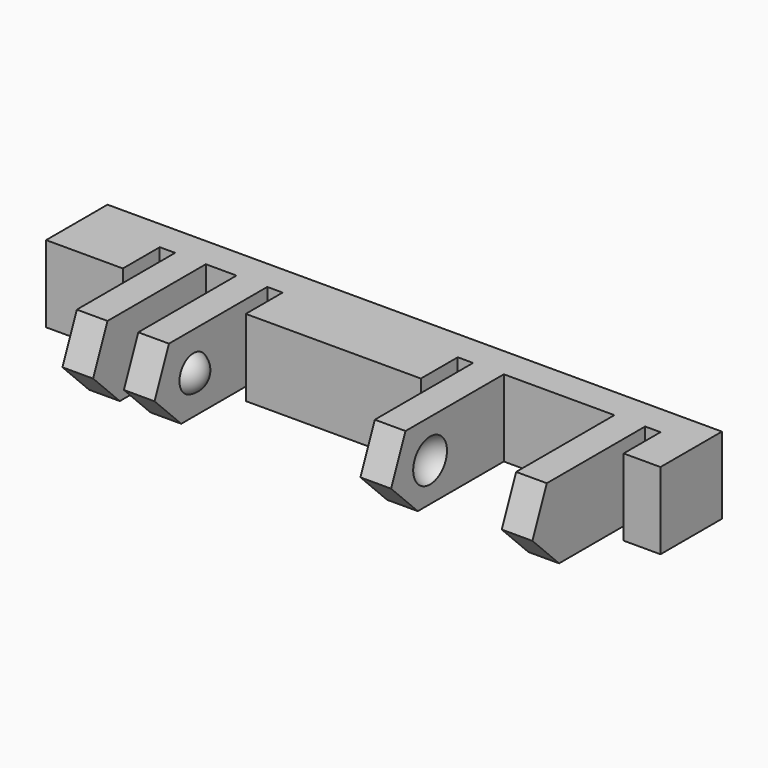
from build123d import *

# Parameters (mm, degrees)
BOX026_W               = 12
BOX026_H               = 44
BOX026_DEPTH           = 10
BOX022_W               = 4
BOX022_H               = 1
BOX022_DEPTH           = 7
BOX024_W               = 4
BOX024_H               = 1
BOX024_DEPTH           = 7
BOX021_W               = 4
BOX021_H               = 2
BOX021_DEPTH           = 7
BOX023_W               = 4
BOX023_H               = 1
BOX023_DEPTH           = 7
BOX020_W               = 4
BOX020_H               = 1
BOX020_DEPTH           = 7
BOX025_W               = 4
BOX025_H               = 7.2
BOX025_DEPTH           = 7
BOX019_W               = 13
BOX019_H               = 40
BOX019_DEPTH           = 10
BOX019_PLACEMENT_ANGLE = 45
BOX018_W               = 10
BOX018_H               = 2
BOX018_DEPTH           = 7
BOX017_W               = 10
BOX017_H               = 2
BOX017_DEPTH           = 7
BOX016_W               = 10
BOX016_H               = 2
BOX016_DEPTH           = 7
BOX014_W               = 10
BOX014_H               = 2
BOX014_DEPTH           = 7
BOX015_W               = 5
BOX015_H               = 40
BOX015_DEPTH           = 7
CHAMFER002_SIZE        = 4
CUT007_PLACEMENT_ANGLE = 180
CUT008_PLACEMENT_ANGLE = 90


with BuildPart() as cube026:
    # Box026 → Box026 (new body)
    with BuildSketch(Plane(origin=(-11, -2, -12), x_dir=(1, 0, 0), z_dir=(0, 0, 1))):
        with Locations((6, 22)):
            Rectangle(BOX026_W, BOX026_H)
    extrude(amount=BOX026_DEPTH)


with BuildPart() as cube022:
    # Box022 → Box022 (new body)
    with BuildSketch(Plane(origin=(-1, 12, 0), x_dir=(1, 0, 0), z_dir=(0, 0, 1))):
        with Locations((2, 0.5)):
            Rectangle(BOX022_W, BOX022_H)
    extrude(amount=BOX022_DEPTH)


with BuildPart() as cube024:
    # Box024 → Box024 (new body)
    with BuildSketch(Plane(origin=(-1, 36.6, 0), x_dir=(1, 0, 0), z_dir=(0, 0, 1))):
        with Locations((2, 0.5)):
            Rectangle(BOX024_W, BOX024_H)
    extrude(amount=BOX024_DEPTH)


with BuildPart() as cube021:
    # Box021 → Box021 (new body)
    with BuildSketch(Plane(origin=(-1, 8, 0), x_dir=(1, 0, 0), z_dir=(0, 0, 1))):
        with Locations((2, 1)):
            Rectangle(BOX021_W, BOX021_H)
    extrude(amount=BOX021_DEPTH)


with BuildPart() as cube023:
    # Box023 → Box023 (new body)
    with BuildSketch(Plane(origin=(-1, 24.4, 0), x_dir=(1, 0, 0), z_dir=(0, 0, 1))):
        with Locations((2, 0.5)):
            Rectangle(BOX023_W, BOX023_H)
    extrude(amount=BOX023_DEPTH)


with BuildPart() as cube020:
    # Box020 → Box020 (new body)
    with BuildSketch(Plane(origin=(-1, 5, 0), x_dir=(1, 0, 0), z_dir=(0, 0, 1))):
        with Locations((2, 0.5)):
            Rectangle(BOX020_W, BOX020_H)
    extrude(amount=BOX020_DEPTH)


with BuildPart() as fusion008:
    # Box025 → Box025 (new body)
    with BuildSketch(Plane(origin=(-1, 27.4, 0), x_dir=(1, 0, 0), z_dir=(0, 0, 1))):
        with Locations((2, 3.6)):
            Rectangle(BOX025_W, BOX025_H)
    extrude(amount=BOX025_DEPTH)

    # Fusion008: union Cube022, Cube024, Cube021, Cube023, Cube020
    add(cube022.part)
    add(cube024.part)
    add(cube021.part)
    add(cube023.part)
    add(cube020.part)


with BuildPart() as sphere014:
    # Sphere014 → Sphere014 (revolve)
    with BuildSketch(Plane(origin=(-3, 28, 2.5), x_dir=(1, 0, 0), z_dir=(0, -1, 0))):
        with BuildLine():
            ThreePointArc((0, -1.5), (1.5, 0), (0, 1.5))
            Line((0, 1.5), (0, -1.5))
        make_face()
    revolve(axis=Axis((-3, 28, 2.5), (0, 0, 1)))


with BuildPart() as fusion007:
    # Sphere015 → Sphere015 (revolve)
    with BuildSketch(Plane(origin=(-3, 34, 2.5), x_dir=(1, 0, 0), z_dir=(0, -1, 0))):
        with BuildLine():
            ThreePointArc((0, -1.5), (1.5, 0), (0, 1.5))
            Line((0, 1.5), (0, -1.5))
        make_face()
    revolve(axis=Axis((-3, 34, 2.5), (0, 0, 1)))

    # Fusion007: union Sphere014
    add(sphere014.part)


with BuildPart() as sphere013:
    # Sphere013 → Sphere013 (revolve)
    with BuildSketch(Plane(origin=(-3, 11.5, 2.5), x_dir=(1, 0, 0), z_dir=(0, -1, 0))):
        with BuildLine():
            ThreePointArc((0, -1.25), (1.25, 0), (0, 1.25))
            Line((0, 1.25), (0, -1.25))
        make_face()
    revolve(axis=Axis((-3, 11.5, 2.5), (0, 0, 1)))


with BuildPart() as cube019:
    # Box019 → Box019 (new body)
    with BuildSketch(Plane.XY):
        with Locations((6.5, 20)):
            Rectangle(BOX019_W, BOX019_H)
    extrude(amount=BOX019_DEPTH)


with BuildPart() as cube019_1:
    # Box019 placement: moved
    add(cube019.part.moved(Location((-10.19, 0, -1.19))).rotate(Axis((-10.19, 0, -1.19), (0, -1, 0)), BOX019_PLACEMENT_ANGLE))


with BuildPart() as cube018:
    # Box018 → Box018 (new body)
    with BuildSketch(Plane(origin=(-10, 6, 0), x_dir=(1, 0, 0), z_dir=(0, 0, 1))):
        with Locations((5, 1)):
            Rectangle(BOX018_W, BOX018_H)
    extrude(amount=BOX018_DEPTH)


with BuildPart() as cube017:
    # Box017 → Box017 (new body)
    with BuildSketch(Plane(origin=(-10, 10, 0), x_dir=(1, 0, 0), z_dir=(0, 0, 1))):
        with Locations((5, 1)):
            Rectangle(BOX017_W, BOX017_H)
    extrude(amount=BOX017_DEPTH)


with BuildPart() as cube016:
    # Box016 → Box016 (new body)
    with BuildSketch(Plane(origin=(-10, 25.4, 0), x_dir=(1, 0, 0), z_dir=(0, 0, 1))):
        with Locations((5, 1)):
            Rectangle(BOX016_W, BOX016_H)
    extrude(amount=BOX016_DEPTH)


with BuildPart() as cube014:
    # Box014 → Box014 (new body)
    with BuildSketch(Plane(origin=(-10, 34.6, 0), x_dir=(1, 0, 0), z_dir=(0, 0, 1))):
        with Locations((5, 1)):
            Rectangle(BOX014_W, BOX014_H)
    extrude(amount=BOX014_DEPTH)


with BuildPart() as cut005:
    # Box015 → Box015 (new body)
    with BuildSketch(Plane.XY):
        with Locations((2.5, 20)):
            Rectangle(BOX015_W, BOX015_H)
    extrude(amount=BOX015_DEPTH)

    # Fusion005: union Cube018, Cube017, Cube016, Cube014
    add(cube018.part)
    add(cube017.part)
    add(cube016.part)
    add(cube014.part)

    # Cut005: cut Cube019
    add(cube019_1.part, mode=Mode.SUBTRACT)


with BuildPart() as cut008:
    # Sphere012 → Sphere012 (revolve)
    with BuildSketch(Plane(origin=(-3, 6.5, 2.5), x_dir=(1, 0, 0), z_dir=(0, -1, 0))):
        with BuildLine():
            ThreePointArc((0, -1.25), (1.25, 0), (0, 1.25))
            Line((0, 1.25), (0, -1.25))
        make_face()
    revolve(axis=Axis((-3, 6.5, 2.5), (0, 0, 1)))

    # Fusion006: union Sphere013, Cut005
    add(sphere013.part)
    add(cut005.part)

    # Cut006: cut Fusion007
    add(fusion007.part, mode=Mode.SUBTRACT)

    # Chamfer002
    chamfer002_edges = [cut008.edges().sort_by_distance(p)[0] for p in [
        (-9, 7, 0),
        (-9, 11, 0),
        (-9, 35.6, 0),
        (-9, 26.4, 0),
    ]]
    chamfer(chamfer002_edges, length=CHAMFER002_SIZE)

    # Cut007: cut Fusion008
    add(fusion008.part, mode=Mode.SUBTRACT)


with BuildPart() as cut008_1:
    # Cut007 placement: moved
    add(cut008.part.moved(Location((-5, 40, 3))).rotate(Axis((-5, 40, 3), (1, 0, 0)), CUT007_PLACEMENT_ANGLE))

    # Cut008: cut Cube026
    add(cube026.part, mode=Mode.SUBTRACT)


with BuildPart() as cut008_2:
    # Cut008 placement: moved
    add(cut008_1.part.moved(Location((40, 0, 0))).rotate(Axis((40, 0, 0), (0, 0, 1)), CUT008_PLACEMENT_ANGLE))


solid = cut008_2.part
